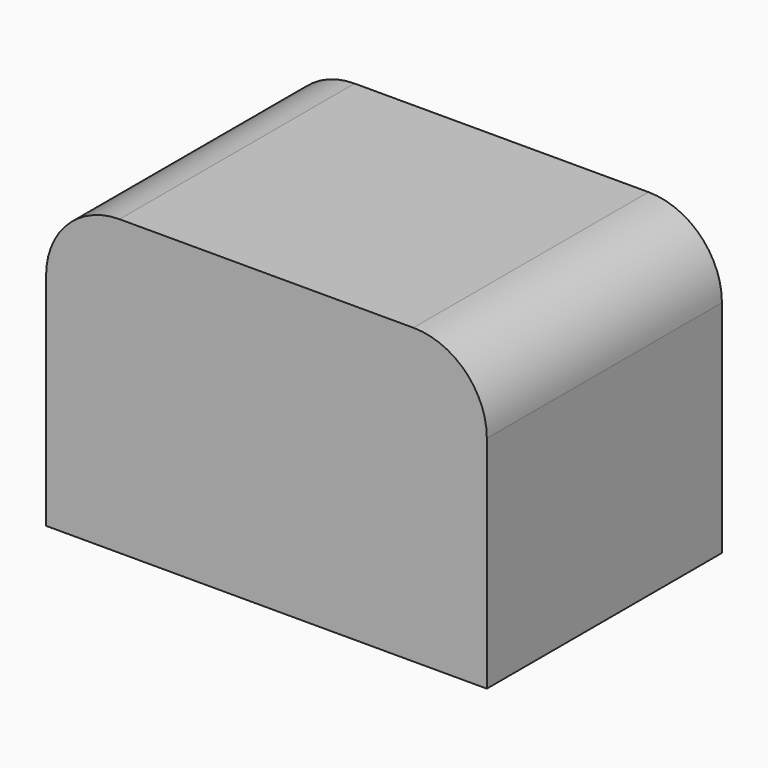
from build123d import *

# Parameters (mm, degrees)
F1_DEPTH = 1219.2


with BuildPart() as f1:
    # F0 (on Front) → F1 (new body)
    with BuildSketch(Plane.XZ):
        with BuildLine():
            Line((-1828.8, 0), (0, 0))
            Line((0, 0), (0, 914.4))
            ThreePointArc((0, 914.4), (-89.273853, 1129.926147), (-304.8, 1219.2))
            Line((-304.8, 1219.2), (-1524, 1219.2))
            ThreePointArc((-1524, 1219.2), (-1739.526147, 1129.926147), (-1828.8, 914.4))
            Line((-1828.8, 914.4), (-1828.8, 0))
        make_face()
    extrude(amount=F1_DEPTH)


solid = f1.part
